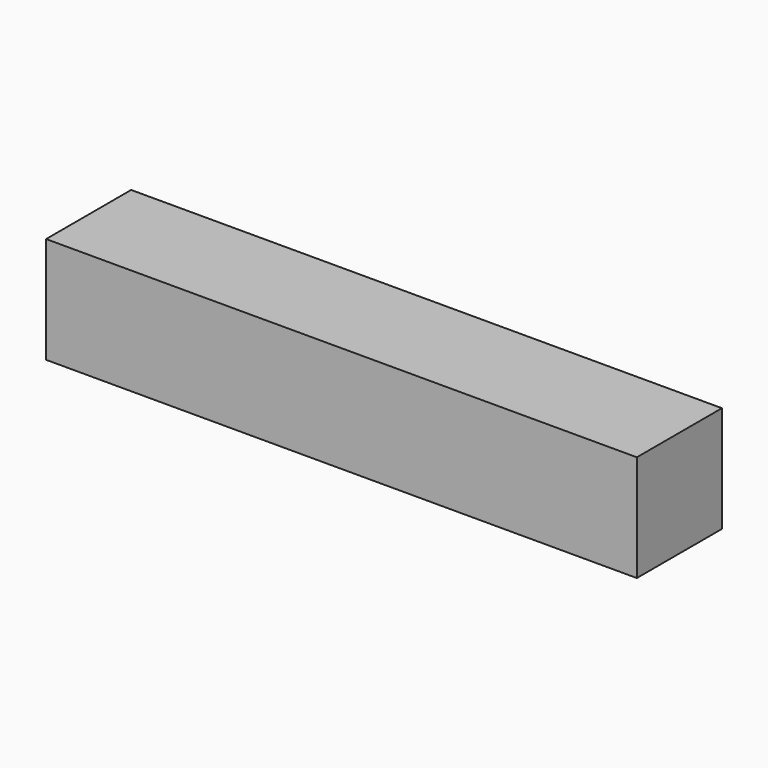
from build123d import *

# Parameters (mm, degrees)
SKETCH_W  = 18
SKETCH_H  = 18
PAD_DEPTH = 100


with BuildPart() as part:
    # Sketch → Pad (new body)
    with BuildSketch(Plane.YZ):
        with Locations((9, 9)):
            Rectangle(SKETCH_W, SKETCH_H)
    extrude(amount=PAD_DEPTH)


solid = part.part
